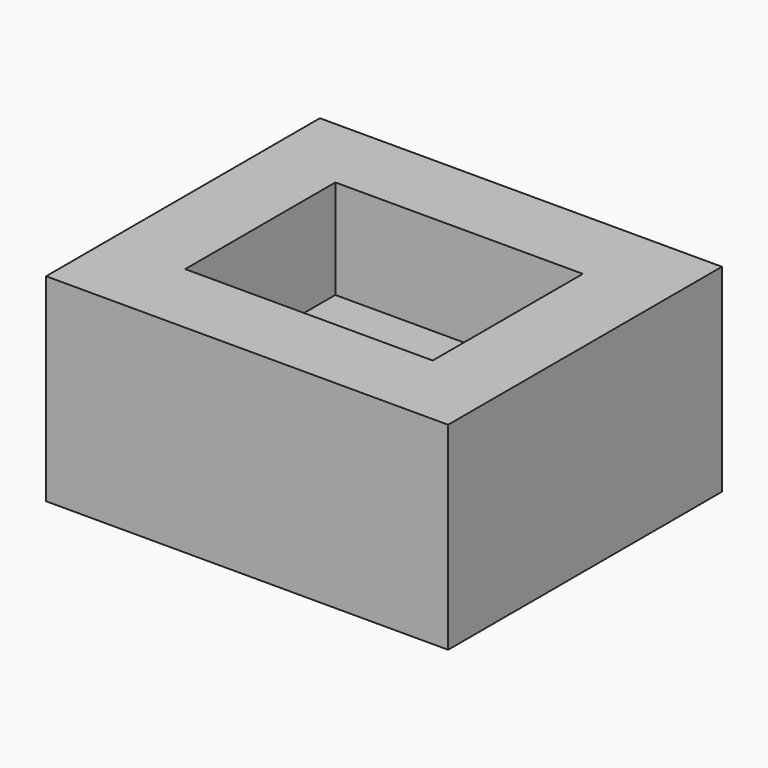
from build123d import *

# Parameters (mm, degrees)
F0_W     = 103.08316
F0_H     = 87.743402
F1_DEPTH = 50.8
F2_W     = 63.459158
F2_H     = 48.1194
F3_DEPTH = 25.4


with BuildPart() as f1:
    # F0 (on Top) → F1 (new body)
    with BuildSketch(Plane.XY):
        with Locations((-0.920383, -3.374748)):
            Rectangle(F0_W, F0_H)
    extrude(amount=-F1_DEPTH)

    # F2 (on face) → F3 (cut)
    with BuildSketch(Plane.XY):
        with Locations((-0.920383, -3.374748)):
            Rectangle(F2_W, F2_H)
    extrude(amount=-F3_DEPTH, mode=Mode.SUBTRACT)


solid = f1.part
